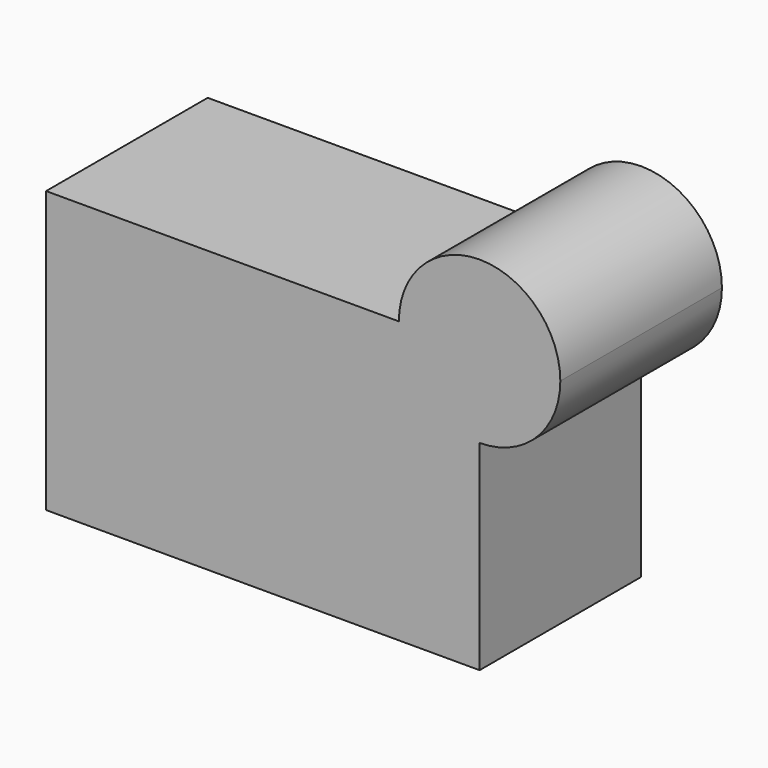
from build123d import *

# Parameters (mm, degrees)
F1_DEPTH = 30.48


with BuildPart() as f1:
    # F0 (on Front) → F1 (new body)
    with BuildSketch(Plane.XZ):
        with BuildLine():
            Line((0.9698885615, 15.1972174644), (-52.2609353065, 15.1972174644))
            Line((-52.2609353065, 15.1972174644), (-52.2609353065, -27.1792672575))
            Line((-52.2609353065, -27.1792672575), (13.1517564878, -27.1792672575))
            Line((13.1517564878, -27.1792672575), (13.1517564878, 3.0153495382))
            ThreePointArc((13.1517564878, 3.0153495382), (4.5378750696, 6.5833360463), (0.9698885615, 15.1972174644))
        make_face()
        with BuildLine():
            ThreePointArc((25.333624414, 15.1972174644), (13.1517564878, 27.3790853907), (0.9698885615, 15.1972174644))
            Line((0.9698885615, 15.1972174644), (13.1517564878, 15.1972174644))
            Line((13.1517564878, 15.1972174644), (13.1517564878, 3.0153495382))
            ThreePointArc((13.1517564878, 3.0153495382), (21.765637906, 6.5833360463), (25.333624414, 15.1972174644))
        make_face()
        with BuildLine():
            Line((13.1517564878, 15.1972174644), (0.9698885615, 15.1972174644))
            ThreePointArc((0.9698885615, 15.1972174644), (4.5378750696, 6.5833360463), (13.1517564878, 3.0153495382))
            Line((13.1517564878, 3.0153495382), (13.1517564878, 15.1972174644))
        make_face()
    extrude(amount=F1_DEPTH)


solid = f1.part
